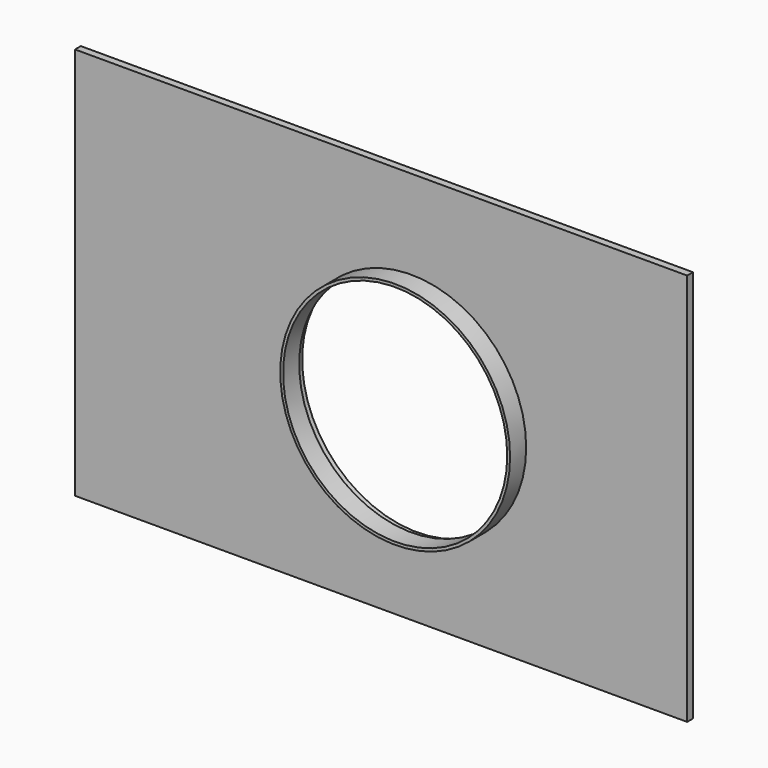
from build123d import *

# Parameters (mm, degrees)
F0_R     = 40
F0_R_2   = 39.0100009527
F1_DEPTH = 7
F0_W     = 188.0487501621
F0_H     = 136.7627084255
F2_DEPTH = 0.9340215474
F3_DEPTH = 9.6
F4_DEPTH = 25
F5_DEPTH = 8


with BuildPart() as f1:
    # F0 (on Front) → F1 (new body)
    with BuildSketch(Plane.XZ):
        Circle(F0_R)
        Circle(F0_R_2, mode=Mode.SUBTRACT)
    extrude(amount=F1_DEPTH)


with BuildPart() as f2:
    # F0 (on Front) → F2 (new body)
    with BuildSketch(Plane.XZ):
        with Locations((2.0005255938, 2.5461316109)):
            Rectangle(F0_W, F0_H)
        Circle(F0_R, mode=Mode.SUBTRACT)
    extrude(amount=-F2_DEPTH)

    # F3 (add): a face of the model
    f3_faces = [f2.faces().sort_by_distance(p)[0] for p in [
        (2.0005255938, 0.9340215474, 68.6022681811),
    ]]
    extrude(f3_faces, amount=F3_DEPTH)

    # F4 (add): faces of the model
    f4_faces = [f2.faces().sort_by_distance(p)[0] for p in [
        (-92.0238494873, 5.2670107737, 2.5461316109),
        (96.0249006748, 5.2670107737, 2.5461316109),
    ]]
    extrude(f4_faces, amount=F4_DEPTH, dir=(-1, 0, 0))

    # F5 (cut): a face of the model
    f5_faces = [f2.faces().sort_by_distance(p)[0] for p in [
        (93.493225175, 10.5340215474, 2.5461316109),
    ]]
    extrude(f5_faces, amount=-F5_DEPTH, mode=Mode.SUBTRACT)


solid = Compound([f1.part, f2.part])
